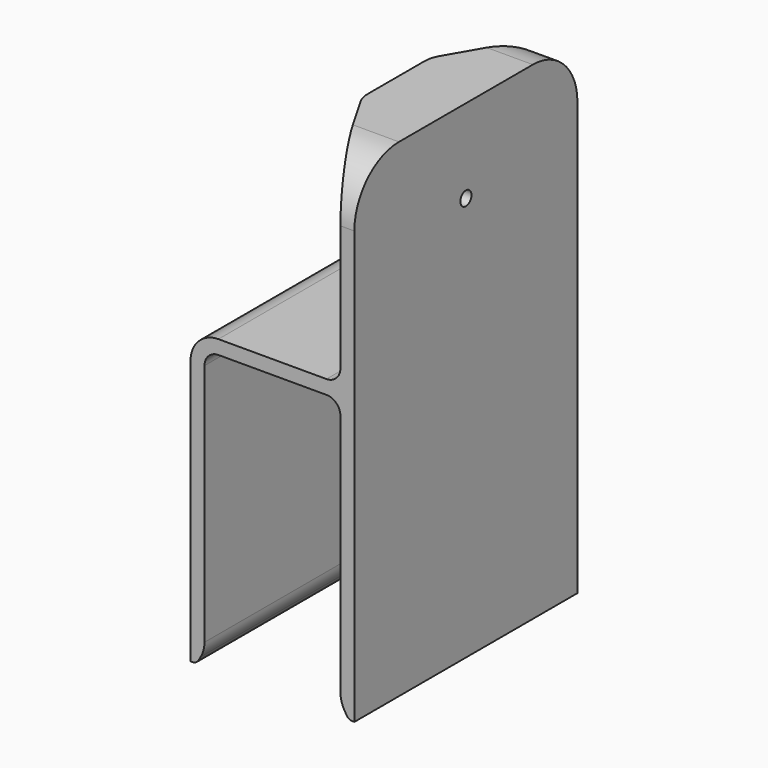
from build123d import *

# Parameters (mm, degrees)
F1_DEPTH = 20
F3_DEPTH = 20
F5_D     = 2
F6_SIZE2 = 1.1547005384
F6_SIZE  = 2
F7_SIZE2 = 1.1547005384
F7_SIZE  = 2
F8_R     = 1
F9_R     = 2
F10_R    = 4
F11_R    = 8


with BuildPart() as f1:
    # F0 (on Front) → F1 (new body, symmetric)
    with BuildSketch(Plane.XZ):
        Polygon((0, 2), (0, 0), (0, -40), (2, -40), (2, 30), (0, 30), align=None)
        Polygon((-19.5, -40), (-19.5, 0), (0, 0), (0, 2), (-21.5, 2), (-21.5, -40), align=None)
    extrude(amount=F1_DEPTH, both=True)

    # F2 (on face) → F3 (join)
    with BuildSketch(Plane.XY.offset(30)):
        Polygon((0, -20), (0, 20), (-8, 6.1435935394), (-8, -6.1435935394), align=None)
    extrude(amount=-F3_DEPTH)

    # F5 (through all)
    with Locations(Plane.YZ.offset(2)):
        with Locations((0, 18)):
            Hole(F5_D / 2)

    # F6
    f6_edges = [f1.edges().sort_by_distance(p)[0] for p in [
        (-19.5, 0, -40),
    ]]
    f6_side = f1.faces().sort_by_distance((-19.5, 0, -20))[0]
    chamfer(f6_edges, length=F6_SIZE, length2=F6_SIZE2, reference=f6_side)

    # F7
    f7_edges = [f1.edges().sort_by_distance(p)[0] for p in [
        (0, 0, -40),
    ]]
    f7_side = f1.faces().sort_by_distance((0, 0, -20))[0]
    chamfer(f7_edges, length=F7_SIZE, length2=F7_SIZE2, reference=f7_side)

    # F8
    f8_edges = [f1.edges().sort_by_distance(p)[0] for p in [
        (-20.654701, 0, -40),
        (1.154701, 0, -40),
    ]]
    fillet(f8_edges, radius=F8_R)

    # F9
    f9_edges = [f1.edges().sort_by_distance(p)[0] for p in [
        (0, 0, 2),
        (-19.5, 0, 0),
        (0, 0, 0),
        (0, 0, 10),
    ]]
    fillet(f9_edges, radius=F9_R)

    # F10
    f10_edges = [f1.edges().sort_by_distance(p)[0] for p in [
        (-21.5, 0, 2),
        (-8, -6.143594, 20),
        (-8, 6.143594, 20),
        (-19.5, 0, -38),
        (0, 0, -38),
    ]]
    fillet(f10_edges, radius=F10_R)

    # F11
    f11_edges = [f1.edges().sort_by_distance(p)[0] for p in [
        (1, -20, 30),
        (1, 20, 30),
    ]]
    fillet(f11_edges, radius=F11_R)


solid = f1.part
